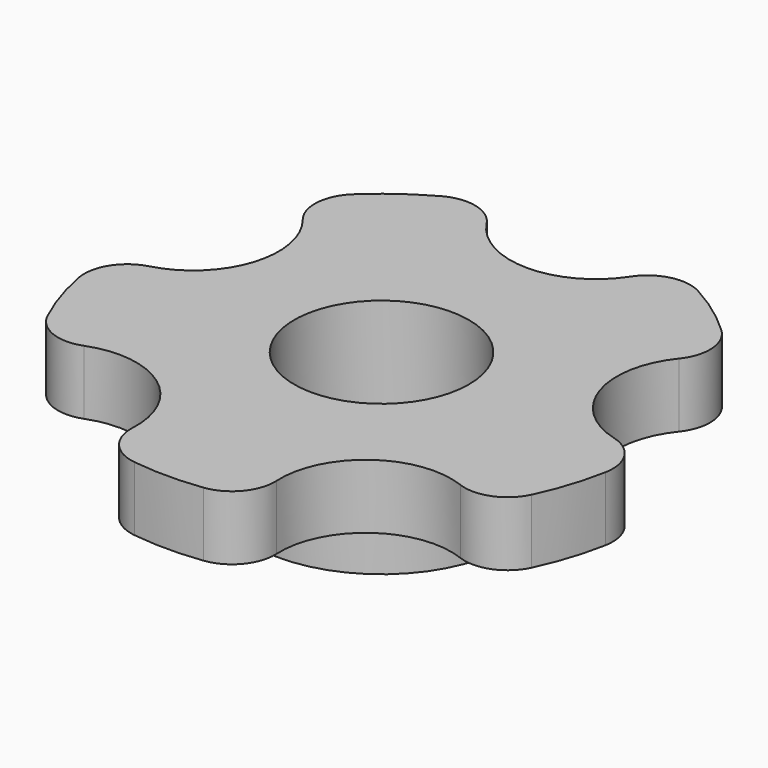
from build123d import *

# Parameters (mm, degrees)
SKETCH_R           = 6
PAD_DEPTH          = 4
SKETCH001_R        = 12.5
PAD001_DEPTH       = 3
SKETCH002_R        = 4
POCKET_DEPTH       = 3
POLARPATTERN_COUNT = 5
FILLET_R           = 2
SKETCH003_R        = 2.31
POCKET001_DEPTH    = 3
POCKET001_FACE25_R = 6
POCKET002_DEPTH    = 1
POCKET002_FACE26_R = 2.31
POCKET003_DEPTH    = 1.5
POCKET003_FACE26_R = 2.31
POCKET004_DEPTH    = 1.501
SKETCH005_R        = 6
SKETCH005_R_2      = 2.31
PAD002_DEPTH       = 3
PAD002_FACE38_R    = 2.31
PAD003_DEPTH       = 3
SKETCH006_R        = 4.075
POCKET005_DEPTH    = 6.001


with BuildPart() as part:
    # Sketch → Pad (new body)
    with BuildSketch(Plane.XY):
        Circle(SKETCH_R)
        Polygon((-2.286307, -3.96), (2.286307, -3.96), (4.572614, 0), (2.286307, 3.96), (-2.286307, 3.96), (-4.572614, 0), align=None, mode=Mode.SUBTRACT)
    extrude(amount=PAD_DEPTH)

    # Sketch001 (on Face9 of Pad) → Pad001 (join)
    with BuildSketch(Plane.XY.offset(4)):
        Circle(SKETCH001_R)
    extrude(amount=PAD001_DEPTH)

    # Sketch002 (on Face3 of Pad001) → Pocket (cut)
    with BuildSketch(Plane.XY.offset(7)):
        with Locations((0, 12.5)):
            Circle(SKETCH002_R)
    pocket = extrude(amount=-POCKET_DEPTH, mode=Mode.SUBTRACT)

    # PolarPattern: Pocket ×5 about axis
    polarpattern_axis = Axis((0, 0, 0), (0, 0, 1))
    for i in range(1, POLARPATTERN_COUNT):
        add(pocket.rotate(polarpattern_axis, i * 360 / POLARPATTERN_COUNT), mode=Mode.SUBTRACT)

    # Fillet
    fillet_edges = [part.edges().sort_by_distance(p)[0] for p in [
        (-12.499674, -0.090275, 5.5),
        (-10.059387, 7.420158, 5.5),
        (-3.948468, 11.86, 5.5),
        (3.948468, 11.86, 5.5),
        (-3.776755, -11.915793, 5.5),
        (-10.165511, -7.27409, 5.5),
        (10.165511, -7.27409, 5.5),
        (3.776755, -11.915793, 5.5),
        (10.059387, 7.420158, 5.5),
        (12.499674, -0.090275, 5.5),
    ]]
    fillet(fillet_edges, radius=FILLET_R)

    # Sketch003 (on Face31 of Fillet) → Pocket001 (cut)
    with BuildSketch(Plane(origin=(0, 0, 4), x_dir=(1, 0, 0), z_dir=(0, 0, -1))):
        Circle(SKETCH003_R)
    extrude(amount=-POCKET001_DEPTH, mode=Mode.SUBTRACT)

    # Pocket001 Face25 → Pocket002 (cut)
    with BuildSketch(Plane(origin=(0, 0, 0), x_dir=(0, -1, 0), z_dir=(0, 0, -1))):
        Circle(POCKET001_FACE25_R)
        Polygon((0, 4.572614), (3.96, 2.286307), (3.96, -2.286307), (0, -4.572614), (-3.96, -2.286307), (-3.96, 2.286307), align=None, mode=Mode.SUBTRACT)
    extrude(amount=-POCKET002_DEPTH, mode=Mode.SUBTRACT)

    # Pocket002 Face26 → Pocket003 (cut)
    with BuildSketch(Plane(origin=(0, 0, 4), x_dir=(0, -1, 0), z_dir=(0, 0, -1))):
        Polygon((0, 4.572614), (-3.96, 2.286307), (-3.96, -2.286307), (0, -4.572614), (3.96, -2.286307), (3.96, 2.286307), align=None)
        Circle(POCKET002_FACE26_R, mode=Mode.SUBTRACT)
    extrude(amount=-POCKET003_DEPTH, mode=Mode.SUBTRACT)

    # Pocket003 Face26 → Pocket004 (cut, through all)
    with BuildSketch(Plane(origin=(0, 0, 5.5), x_dir=(0, -1, 0), z_dir=(0, 0, -1))):
        Polygon((0, 4.572614), (-3.96, 2.286307), (-3.96, -2.286307), (0, -4.572614), (3.96, -2.286307), (3.96, 2.286307), align=None)
        Circle(POCKET003_FACE26_R, mode=Mode.SUBTRACT)
    extrude(amount=-POCKET004_DEPTH, mode=Mode.SUBTRACT)

    # Sketch005 (on Face30 of Pocket004) → Pad002 (join)
    with BuildSketch(Plane(origin=(0, 0, 1), x_dir=(1, 0, 0), z_dir=(0, 0, -1))):
        Circle(SKETCH005_R)
        Circle(SKETCH005_R_2, mode=Mode.SUBTRACT)
    extrude(amount=-PAD002_DEPTH)

    # Pad002 Face38 → Pad003 (add)
    with BuildSketch(Plane(origin=(0, 0, 4), x_dir=(0, 1, 0), z_dir=(0, 0, 1))):
        Polygon((0, 4.572614), (-3.96, 2.286307), (-3.96, -2.286307), (0, -4.572614), (3.96, -2.286307), (3.96, 2.286307), align=None)
        Circle(PAD002_FACE38_R, mode=Mode.SUBTRACT)
    extrude(amount=PAD003_DEPTH)

    # Sketch006 (on Face24 of Pad003) → Pocket005 (cut, through all)
    with BuildSketch(Plane.XY.offset(7)):
        Circle(SKETCH006_R)
    extrude(amount=-POCKET005_DEPTH, mode=Mode.SUBTRACT)


solid = part.part
